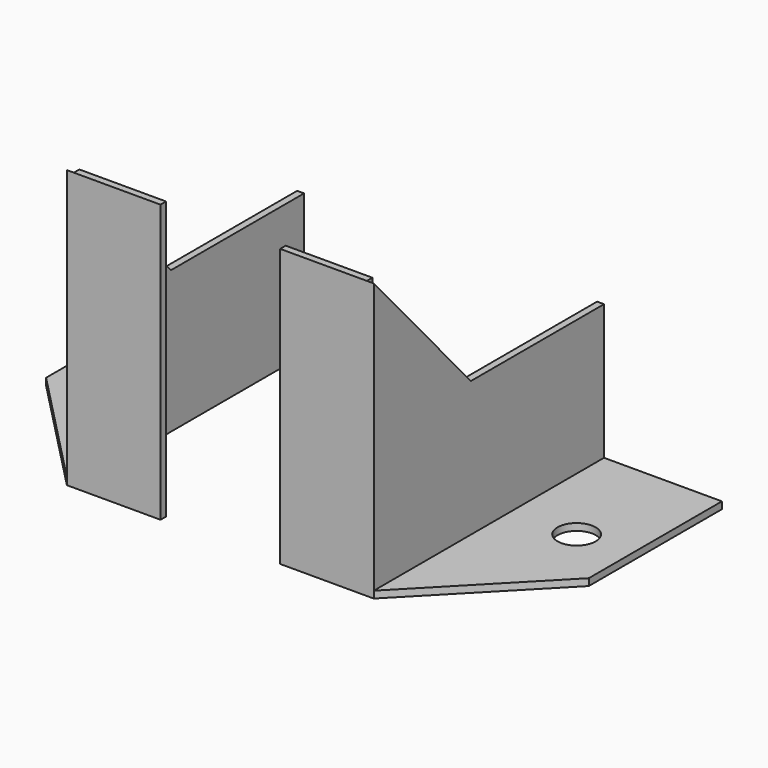
from build123d import *

# Parameters (mm, degrees)
F3_DEPTH = 80
F2_R     = 5.5
F4_DEPTH = 2
F6_DEPTH = 2
F2_W     = 25
F2_H     = 2
F7_DEPTH = 80
F8_DEPTH = 80.001


with BuildPart() as f3:
    # F2 (on Top) → F3 (new body)
    with BuildSketch(Plane.XY):
        Polygon((2, 48), (0, 48), (0, -35), (2, -35), (2, -33), align=None)
    extrude(amount=F3_DEPTH)

    # F2 (on Top) → F4 (join)
    with BuildSketch(Plane.XY):
        Polygon((0, -35), (0, 48), (-34, 48), (-34, 0), align=None)
        with Locations((-18.5, 15)):
            Circle(F2_R, mode=Mode.SUBTRACT)
    extrude(amount=F4_DEPTH)

    # F5 (on face) → F6 (cut, through all)
    with BuildSketch(Plane(origin=(0, 0, 0), x_dir=(0, -1, 0), z_dir=(-1, 0, 0))):
        Polygon((-48, 80), (-48, 41), (0, 41), (35, 80), align=None)
    extrude(amount=-F6_DEPTH, mode=Mode.SUBTRACT)

    # F2 (on Top) → F7 (join)
    with BuildSketch(Plane.XY):
        with Locations((14.5, -34)):
            Rectangle(F2_W, F2_H)
    extrude(amount=F7_DEPTH)

    # F2 (on Top) → F8 (cut, through all)
    with BuildSketch(Plane.XY):
        with Locations((-18.5, 15)):
            Circle(F2_R)
    extrude(amount=F8_DEPTH, mode=Mode.SUBTRACT)


with BuildPart() as f9_1:
    # F9: instance of F3
    add(f3.part.mirror(Plane.YZ))


with BuildPart() as f9_1_1:
    # F10: moved
    add(f9_1.part.moved(Location((88.5, 0, 0))))


solid = Compound([f3.part, f9_1_1.part])
